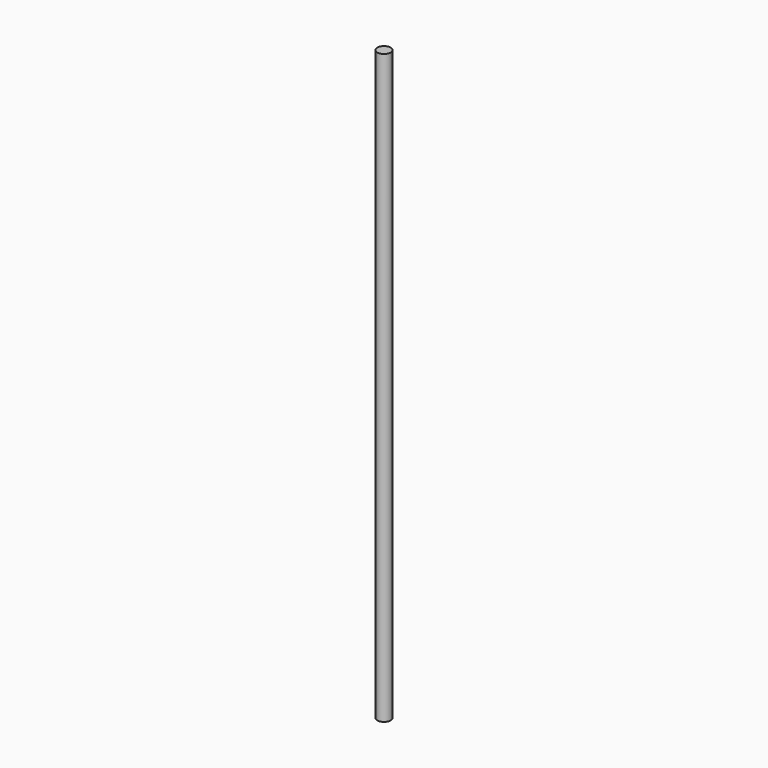
from build123d import *

# Parameters (mm, degrees)
SKETCH_R  = 4
PAD_DEPTH = 350


with BuildPart() as part:
    # Sketch → Pad (new body)
    with BuildSketch(Plane.XY):
        Circle(SKETCH_R)
    extrude(amount=PAD_DEPTH)


solid = part.part
